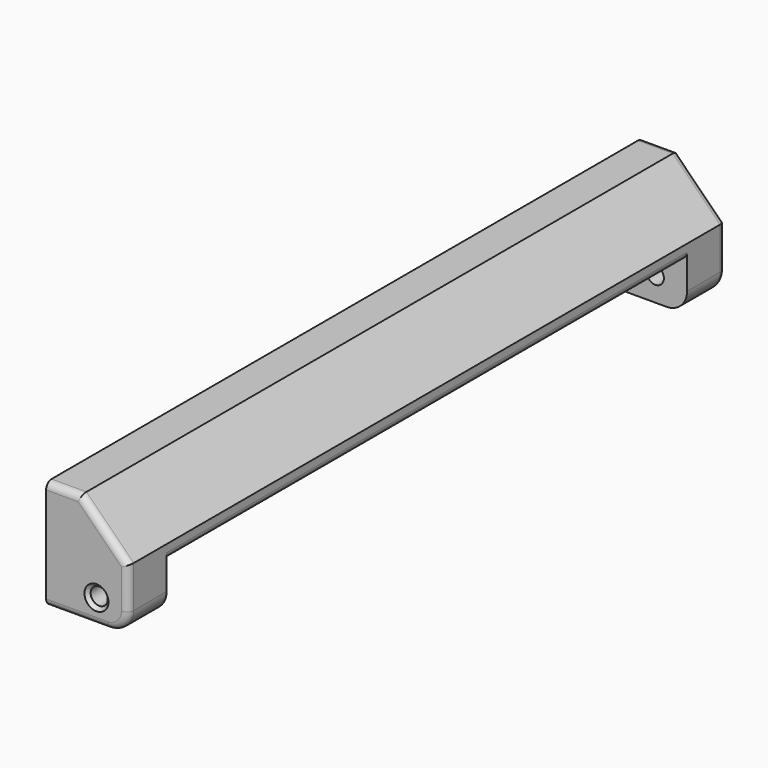
from build123d import *

# Parameters (mm, degrees)
PAD012_DEPTH    = 12
CHAMFER011_SIZE = 6.9
FILLET025_R     = 1
FILLET024_R     = 3
FILLET026_R     = 1
SKETCH050_R     = 1.25
POCKET019_DEPTH = 109.001
CHAMFER012_SIZE = 0.5
FILLET030_R     = 1


with BuildPart() as part:
    # Sketch049 → Pad012 (new body)
    with BuildSketch(Plane.YZ.offset(37)):
        Polygon((-48, 6), (-41, 6), (-41, 13), (54, 13), (54, 6), (61, 6), (61, 22), (-48, 22), align=None)
    extrude(amount=PAD012_DEPTH)

    # Chamfer011
    chamfer011_edges = [part.edges().sort_by_distance(p)[0] for p in [
        (49, 6.5, 22),
    ]]
    chamfer(chamfer011_edges, length=CHAMFER011_SIZE)

    # Fillet025
    fillet025_edges = [part.edges().sort_by_distance(p)[0] for p in [
        (49, 6.5, 13),
    ]]
    fillet(fillet025_edges, radius=FILLET025_R)

    # Fillet024
    fillet024_edges = [part.edges().sort_by_distance(p)[0] for p in [
        (49, 57.5, 6),
        (49, -44.5, 6),
    ]]
    fillet(fillet024_edges, radius=FILLET024_R)

    # Fillet026
    fillet026_edges = [part.edges().sort_by_distance(p)[0] for p in [
        (41.5, 61, 6),
        (48.12132, 61, 6.87868),
        (49, 61, 12.05),
        (45.55, 61, 18.55),
        (39.55, 61, 22),
    ]]
    fillet(fillet026_edges, radius=FILLET026_R)

    # Sketch050 (on Face12 of Fillet026) → Pocket019 (cut, through all)
    with BuildSketch(Plane.ZX.offset(61)):
        with Locations((9.54001, 44.356239)):
            Circle(SKETCH050_R)
    extrude(amount=-POCKET019_DEPTH, mode=Mode.SUBTRACT)

    # Chamfer012
    chamfer012_edges = [part.edges().sort_by_distance(p)[0] for p in [
        (44.356239, 61, 8.29001),
        (44.356239, -48, 8.29001),
    ]]
    chamfer(chamfer012_edges, length=CHAMFER012_SIZE)

    # Fillet030
    fillet030_edges = [part.edges().sort_by_distance(p)[0] for p in [
        (45.55, -48, 18.55),
        (39.55, -48, 22),
        (49, -48, 12.05),
        (48.12132, -48, 6.87868),
        (41.5, -48, 6),
    ]]
    fillet(fillet030_edges, radius=FILLET030_R)


solid = part.part
